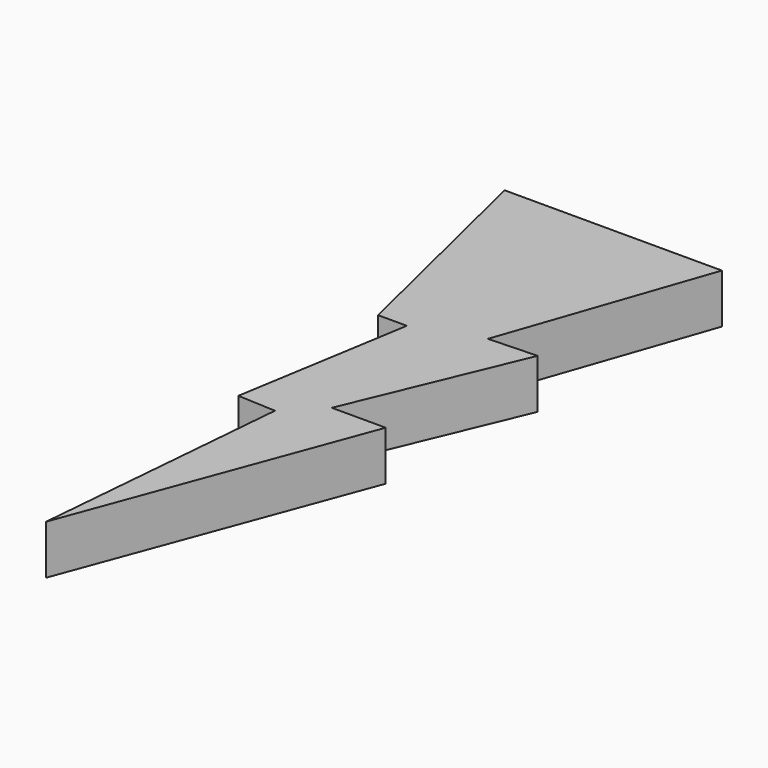
from build123d import *

# Parameters (mm, degrees)
PAD_DEPTH = 5


with BuildPart() as part:
    # Sketch → Pad (new body)
    with BuildSketch(Plane.XY):
        Polygon((-5.555604, 39.453907), (16.478292, 39.453907), (9.321986, 18.738277), (14.218401, 18.926603), (7.0621, 1.789124), (12.523495, 1.789124), (1.600706, -27.589405), (3.860592, -1.412382), (0, -1.224058), (2.918975, 16.47839), (0, 16.47839), align=None)
    extrude(amount=PAD_DEPTH)


solid = part.part
